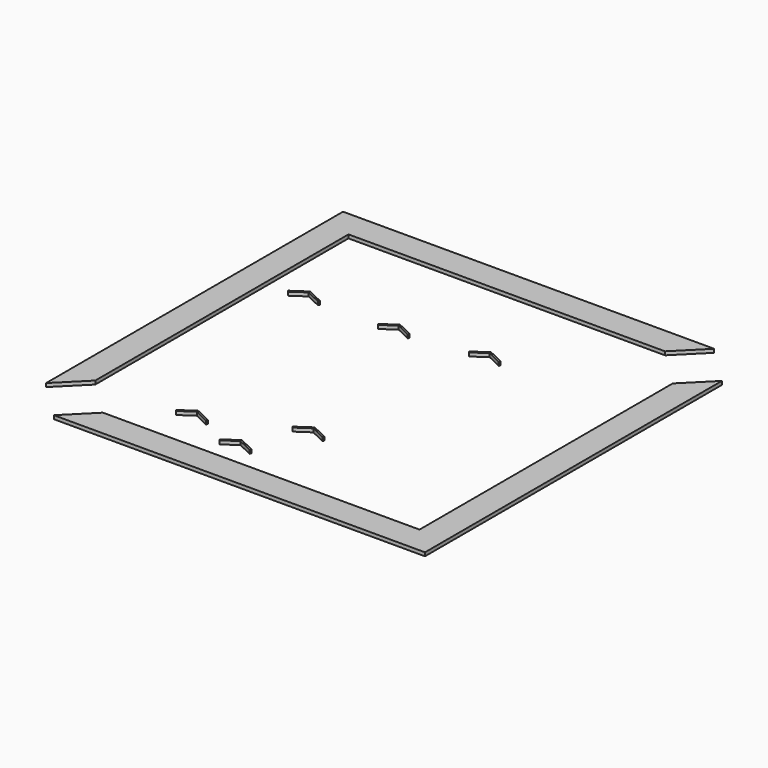
from build123d import *

# Parameters (mm, degrees)
F1_DEPTH = 0.13
F2_DEPTH = 0.13


with BuildPart() as f1:
    # F0 (on Top) → F1 (new body)
    with BuildSketch(Plane.XY):
        Polygon((5.085786, 6.5), (6.085786, 7.5), (-7.5, 7.5), (-7.5, -6.085786), (-6.5, -5.085786), (-6.5, 6.5), align=None)
        Polygon((-6.085786, -7.5), (7.5, -7.5), (7.5, 6.085786), (6.5, 5.085786), (6.5, -6.5), (-5.085786, -6.5), align=None)
    extrude(amount=F1_DEPTH)


with BuildPart() as f2:
    # F0 (on Top) → F2 (new body)
    with BuildSketch(Plane.XY):
        Polygon((5.085786, 6.5), (6.085786, 7.5), (-7.5, 7.5), (-7.5, -6.085786), (-6.5, -5.085786), (-6.5, 6.5), align=None)
        Polygon((-6.085786, -7.5), (7.5, -7.5), (7.5, 6.085786), (6.5, 5.085786), (6.5, -6.5), (-5.085786, -6.5), align=None)
        Polygon((-5.672582, 2.699378), (-5.63681, 2.646913), (-5.142446, 2.983979), (-4.603357, 2.724381), (-4.575806, 2.781593), (-5.147927, 3.057097), align=None)
        Polygon((-2.380478, 2.699382), (-2.344706, 2.646917), (-1.850342, 2.983983), (-1.311253, 2.724385), (-1.283702, 2.781597), (-1.855823, 3.057101), align=None)
        Polygon((0.715081, 2.994214), (0.750853, 2.941749), (1.245216, 3.278815), (1.784305, 3.019216), (1.811856, 3.076428), (1.239735, 3.351933), align=None)
        Polygon((-3.559263, -5.065025), (-3.523491, -5.117491), (-3.029128, -4.780425), (-2.490039, -5.040023), (-2.462488, -4.982811), (-3.034609, -4.707307), align=None)
        Polygon((-1.446284, -5.704065), (-1.410512, -5.75653), (-0.916149, -5.419464), (-0.377059, -5.679063), (-0.349509, -5.621851), (-0.921629, -5.346346), align=None)
        Polygon((-0.316268, -3.787504), (-0.280496, -3.83997), (0.213868, -3.502904), (0.752957, -3.762502), (0.780508, -3.70529), (0.208387, -3.429786), align=None)
    extrude(amount=F2_DEPTH)


solid = Compound([f1.part, f2.part])
